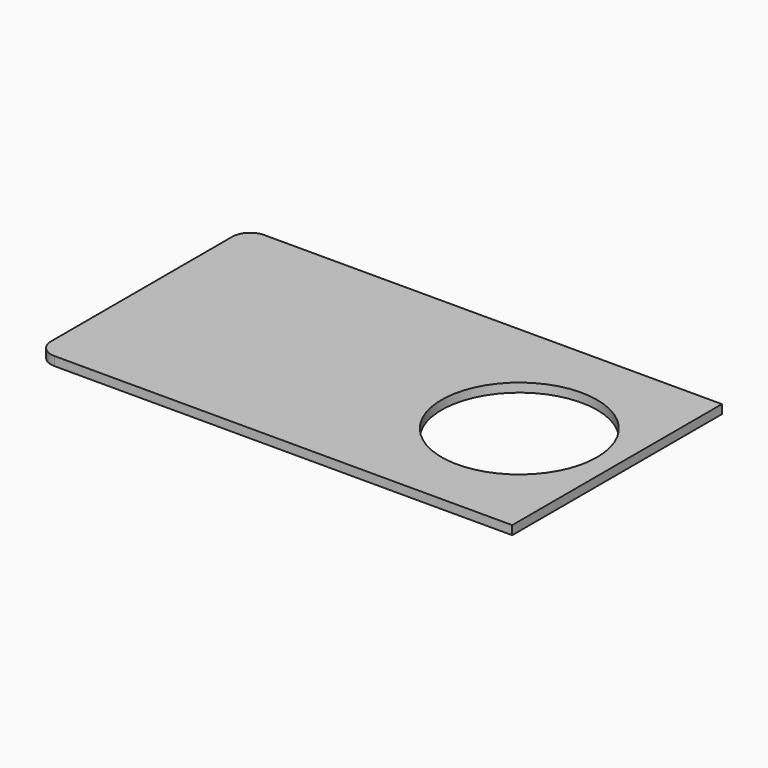
from build123d import *

# Parameters (mm, degrees)
F0_W     = 87
F0_H     = 59
F1_DEPTH = 2
F2_R     = 17.5
F3_DEPTH = 25
F4_DEPTH = 20
F5_R     = 4


with BuildPart() as f1:
    # F0 (on Top) → F1 (new body)
    with BuildSketch(Plane.XY):
        Rectangle(F0_W, F0_H)
    extrude(amount=F1_DEPTH)

    # F2 (on face) → F3 (cut)
    with BuildSketch(Plane.XY.offset(2)):
        with Locations((21.5, 0)):
            Circle(F2_R)
    extrude(amount=-F3_DEPTH, mode=Mode.SUBTRACT)

    # F4 (add): a face of the model
    f4_faces = [f1.faces().sort_by_distance(p)[0] for p in [
        (-43.5, 0, 1),
    ]]
    extrude(f4_faces, amount=F4_DEPTH)

    # F5
    f5_edges = [f1.edges().sort_by_distance(p)[0] for p in [
        (-63.5, 29.5, 1),
        (-63.5, -29.5, 1),
    ]]
    fillet(f5_edges, radius=F5_R)


solid = f1.part
